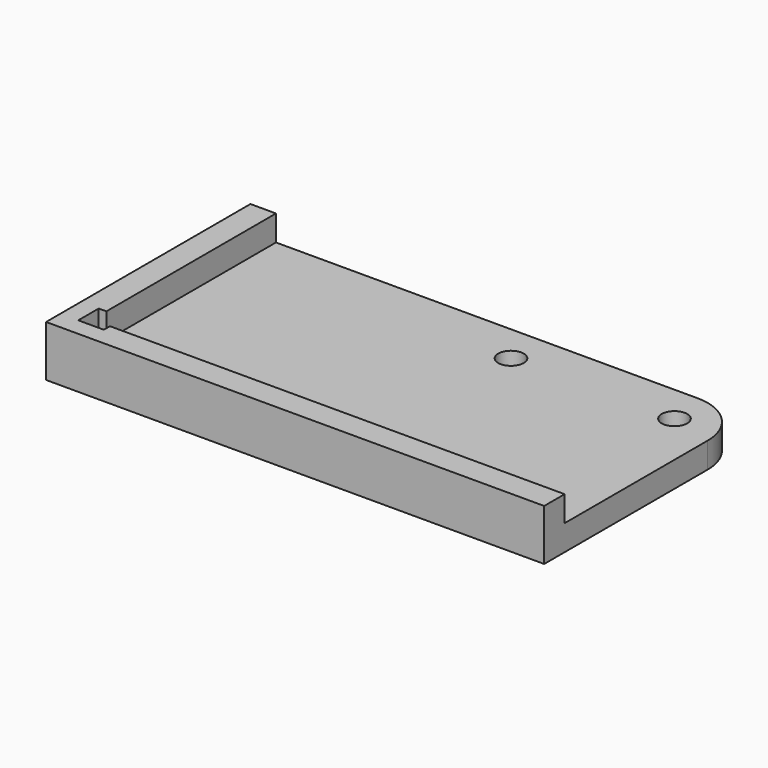
from build123d import *

# Parameters (mm, degrees)
F0_W     = 97.5
F0_H     = 50
F1_DEPTH = 10
F2_T     = -5
F3_W     = 5
F3_H     = 5
F4_DEPTH = 5
F6_D     = 5
F7_R     = 10


with BuildPart() as f1:
    # F0 (on Top) → F1 (new body)
    with BuildSketch(Plane.XY):
        with Locations((48.75, 25)):
            Rectangle(F0_W, F0_H)
    extrude(amount=F1_DEPTH)

    # F2
    f2_openings = [f1.faces().sort_by_distance(p)[0] for p in [
        (97.5, 25, 5),
        (48.75, 50, 5),
        (48.75, 25, 10),
    ]]
    offset(amount=F2_T, openings=f2_openings)

    # F3 (on face) → F4 (cut)
    with BuildSketch(Plane.XY.offset(10)):
        with Locations((6, 6)):
            Rectangle(F3_W, F3_H)
    extrude(amount=-F4_DEPTH, mode=Mode.SUBTRACT)

    # F6 (through all)
    with Locations(Plane.XY.offset(5)):
        with Locations((57, 42.5), (89, 42.5)):
            Hole(F6_D / 2)

    # F7
    f7_edges = [f1.edges().sort_by_distance(p)[0] for p in [
        (97.5, 50, 2.5),
    ]]
    fillet(f7_edges, radius=F7_R)


solid = f1.part
